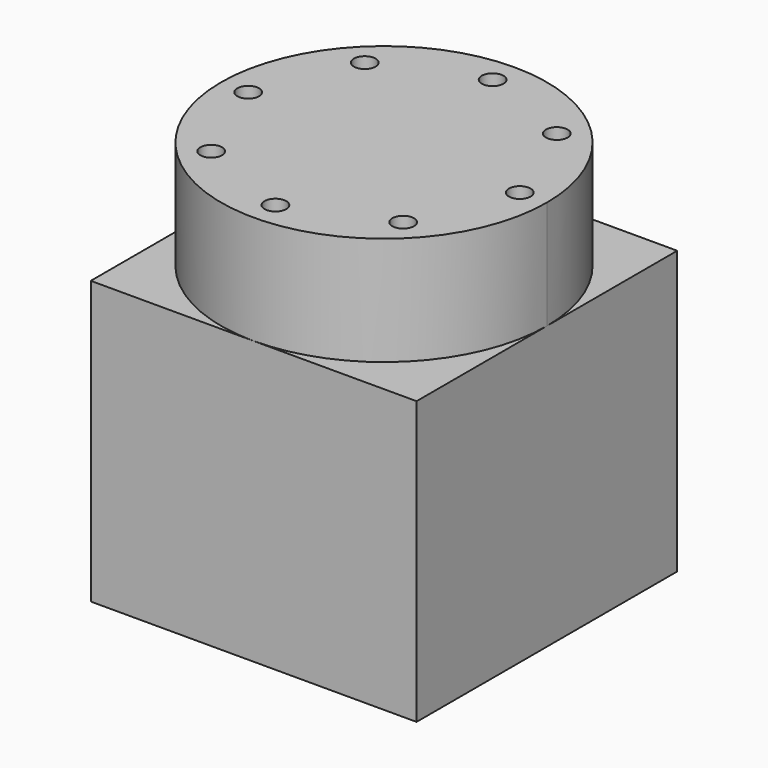
from build123d import *

# Parameters (mm, degrees)
F1_DEPTH = 52
F2_DEPTH = 20
F3_R     = 2
F4_DEPTH = 5
F5_R     = 2
F6_DEPTH = 20


with BuildPart() as f1:
    # F0 (on Top) → F1 (new body)
    with BuildSketch(Plane.XY):
        with BuildLine():
            Line((4.28e-08, 30), (-30, 30))
            Line((-30, 30), (-30, 0))
            ThreePointArc((-30, 0), (-21.2132034204, 21.2132034507), (4.28e-08, 30))
        make_face()
        with BuildLine():
            Line((30, 30), (4.28e-08, 30))
            ThreePointArc((4.28e-08, 30), (21.2132034507, 21.2132034204), (30, 0))
            Line((30, 0), (30, 30))
        make_face()
        with BuildLine():
            ThreePointArc((30, 0), (21.2132034507, 21.2132034204), (4.28e-08, 30))
            ThreePointArc((4.28e-08, 30), (-21.2132034204, 21.2132034507), (-30, 0))
            ThreePointArc((-30, 0), (-21.2132034356, -21.2132034356), (0, -30))
            ThreePointArc((0, -30), (21.2132034356, -21.2132034356), (30, 0))
        make_face()
        with BuildLine():
            ThreePointArc((0, -30), (-21.2132034356, -21.2132034356), (-30, 0))
            Line((-30, 0), (-30, -30))
            Line((-30, -30), (0, -30))
        make_face()
        with BuildLine():
            Line((30, -30), (30, 0))
            ThreePointArc((30, 0), (21.2132034356, -21.2132034356), (0, -30))
            Line((0, -30), (30, -30))
        make_face()
    extrude(amount=-F1_DEPTH)

    # F0 (on Top) → F2 (join)
    with BuildSketch(Plane.XY):
        with BuildLine():
            ThreePointArc((30, 0), (21.2132034507, 21.2132034204), (4.28e-08, 30))
            ThreePointArc((4.28e-08, 30), (-21.2132034204, 21.2132034507), (-30, 0))
            ThreePointArc((-30, 0), (-21.2132034356, -21.2132034356), (0, -30))
            ThreePointArc((0, -30), (21.2132034356, -21.2132034356), (30, 0))
        make_face()
    extrude(amount=F2_DEPTH)

    # F3 (on face) → F4 (cut)
    with BuildSketch(Plane.XY.offset(20)):
        with Locations((0, 25)):
            Circle(F3_R)
        with Locations((-17.6776695297, 17.6776695297)):
            Circle(F3_R)
        with Locations((-25, 0)):
            Circle(F3_R)
        with Locations((-17.6776695297, -17.6776695297)):
            Circle(F3_R)
        with Locations((0, -25)):
            Circle(F3_R)
        with Locations((17.6776695297, -17.6776695297)):
            Circle(F3_R)
        with Locations((25, 0)):
            Circle(F3_R)
        with Locations((17.6776695297, 17.6776695297)):
            Circle(F3_R)
    extrude(amount=-F4_DEPTH, mode=Mode.SUBTRACT)

    # F5 (on face) → F6 (cut)
    with BuildSketch(Plane(origin=(0, 0, -52), x_dir=(1, 0, 0), z_dir=(0, 0, -1))):
        with Locations((-25, 25)):
            Circle(F5_R)
        with Locations((25, -25)):
            Circle(F5_R)
        with Locations((25, 25)):
            Circle(F5_R)
        with Locations((-25, -25)):
            Circle(F5_R)
    extrude(amount=-F6_DEPTH, mode=Mode.SUBTRACT)


solid = f1.part
